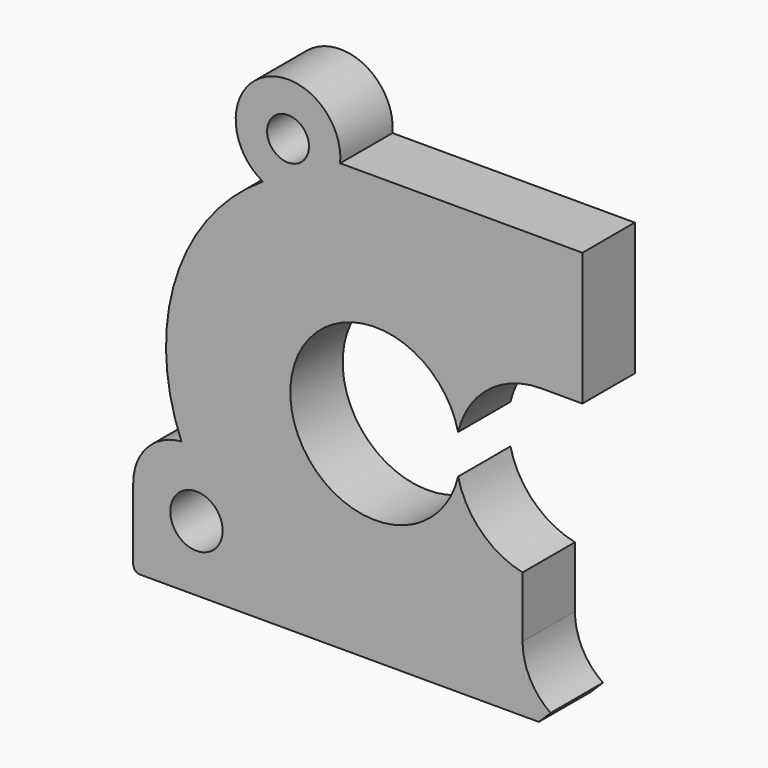
from build123d import *

# Parameters (mm, degrees)
BOX010_W                    = 11
BOX010_H                    = 5
BOX010_DEPTH                = 12
CYLINDER029_R               = 5
CYLINDER029_DEPTH           = 5
BOX011_W                    = 9
BOX011_H                    = 5
BOX011_DEPTH                = 13.5
CYLINDER027_R               = 1.6
CYLINDER027_DEPTH           = 5
CYLINDER028_R               = 2
CYLINDER028_DEPTH           = 5
CYLINDER024_R               = 6.5
CYLINDER024_DEPTH           = 5
CYLINDER023_R               = 6.5
CYLINDER023_DEPTH           = 5
CYLINDER022_R               = 16
CYLINDER022_DEPTH           = 5
CYLINDER026_R               = 4
CYLINDER026_DEPTH           = 5
BOX008_W                    = 19.5
BOX008_H                    = 5
BOX008_DEPTH                = 10.65
BOX009_W                    = 32
BOX009_H                    = 5
BOX009_DEPTH                = 10
FILLET010_R                 = 4
FILLET011_R                 = 0.5
CHAMFER008005003003005_SIZE = 1


with BuildPart() as cube010:
    # Box010 → Box010 (new body)
    with BuildSketch(Plane(origin=(4.925, 10, 7), x_dir=(1, 0, 0), z_dir=(0, 0, 1))):
        with Locations((5.5, 2.5)):
            Rectangle(BOX010_W, BOX010_H)
    extrude(amount=BOX010_DEPTH)


with BuildPart() as cylinder029:
    # Cylinder029 → Cylinder029 (new body)
    with BuildSketch(Plane(origin=(9.925, 15, 7), x_dir=(1, 0, 0), z_dir=(0, -1, 0))):
        Circle(CYLINDER029_R)
    extrude(amount=CYLINDER029_DEPTH)


with BuildPart() as fusion001002002001017:
    # Box011 → Box011 (new body)
    with BuildSketch(Plane(origin=(6.325, 10, 11), x_dir=(1, 0, 0), z_dir=(0, 0, 1))):
        with Locations((4.5, 2.5)):
            Rectangle(BOX011_W, BOX011_H)
    extrude(amount=BOX011_DEPTH)

    # Fusion001002002001017: union Cube010, Cylinder029
    add(cube010.part)
    add(cylinder029.part)


with BuildPart() as cylinder027:
    # Cylinder027 → Cylinder027 (new body)
    with BuildSketch(Plane(origin=(-13, 15, 35), x_dir=(1, 0, 0), z_dir=(0, -1, 0))):
        Circle(CYLINDER027_R)
    extrude(amount=CYLINDER027_DEPTH)


with BuildPart() as fusion001002002001008:
    # Cylinder028 → Cylinder028 (new body)
    with BuildSketch(Plane(origin=(-20, 15, 7), x_dir=(1, 0, 0), z_dir=(0, -1, 0))):
        Circle(CYLINDER028_R)
    extrude(amount=CYLINDER028_DEPTH)

    # Fusion001002002001008: union Cylinder027
    add(cylinder027.part)


with BuildPart() as cylinder024:
    # Cylinder024 → Cylinder024 (new body)
    with BuildSketch(Plane(origin=(-6.325, 15, 18), x_dir=(1, 0, 0), z_dir=(0, -1, 0))):
        Circle(CYLINDER024_R)
    extrude(amount=CYLINDER024_DEPTH)


with BuildPart() as fusion001002002001016:
    # Cylinder023 → Cylinder023 (new body)
    with BuildSketch(Plane(origin=(6.325, 15, 18), x_dir=(1, 0, 0), z_dir=(0, -1, 0))):
        Circle(CYLINDER023_R)
    extrude(amount=CYLINDER023_DEPTH)

    # Fusion001002002001016: union Cylinder024
    add(cylinder024.part)


with BuildPart() as cylinder022:
    # Cylinder022 → Cylinder022 (new body)
    with BuildSketch(Plane(origin=(-6.325, 15, 18), x_dir=(1, 0, 0), z_dir=(0, -1, 0))):
        Circle(CYLINDER022_R)
    extrude(amount=CYLINDER022_DEPTH)


with BuildPart() as cylinder026:
    # Cylinder026 → Cylinder026 (new body)
    with BuildSketch(Plane(origin=(-13, 15, 35), x_dir=(1, 0, 0), z_dir=(0, -1, 0))):
        Circle(CYLINDER026_R)
    extrude(amount=CYLINDER026_DEPTH)


with BuildPart() as cube008:
    # Box008 → Box008 (new body)
    with BuildSketch(Plane(origin=(-10, 10, 24), x_dir=(1, 0, 0), z_dir=(0, 0, 1))):
        with Locations((9.75, 2.5)):
            Rectangle(BOX008_W, BOX008_H)
    extrude(amount=BOX008_DEPTH)


with BuildPart() as obj1:
    # Box009 → Box009 (new body)
    with BuildSketch(Plane(origin=(-24.83, 10, 2), x_dir=(1, 0, 0), z_dir=(0, 0, 1))):
        with Locations((16, 2.5)):
            Rectangle(BOX009_W, BOX009_H)
    extrude(amount=BOX009_DEPTH)

    # Fillet010
    fillet010_edges = [obj1.edges().sort_by_distance(p)[0] for p in [
        (-24.83, 12.5, 12),
    ]]
    fillet(fillet010_edges, radius=FILLET010_R)

    # Fillet011
    fillet011_edges = [obj1.edges().sort_by_distance(p)[0] for p in [
        (-24.83, 12.5, 2),
    ]]
    fillet(fillet011_edges, radius=FILLET011_R)

    # Fusion001002002001015: union Cylinder022, Cylinder026, Cube008
    add(cylinder022.part)
    add(cylinder026.part)
    add(cube008.part)

    # Cut031025: cut Fusion001002002001016
    add(fusion001002002001016.part, mode=Mode.SUBTRACT)

    # Cut031026: cut Fusion001002002001008
    add(fusion001002002001008.part, mode=Mode.SUBTRACT)

    # Chamfer008005003003005
    chamfer008005003003005_edges = [obj1.edges().sort_by_distance(p)[0] for p in [
        (7.17, 12.5, 2),
    ]]
    chamfer(chamfer008005003003005_edges, length=CHAMFER008005003003005_SIZE)

    # Cut031027: cut Fusion001002002001017
    add(fusion001002002001017.part, mode=Mode.SUBTRACT)


solid = obj1.part
